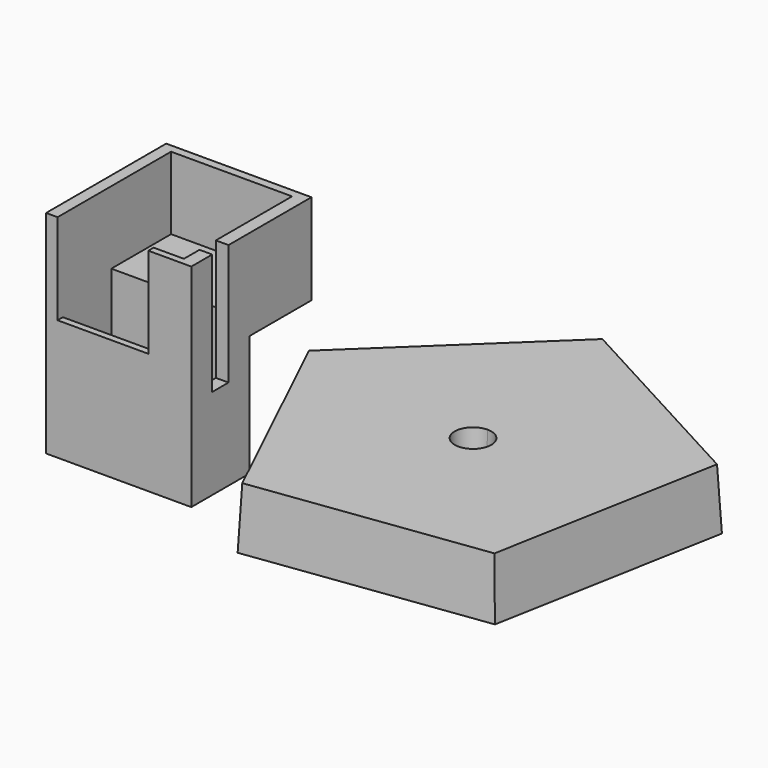
from build123d import *

# Parameters (mm, degrees)
F0_W     = 24
F0_H     = 12
F0_W_2   = 20
F0_H_2   = 10
F1_DEPTH = 15
F3_DEPTH = 5
F4_W     = 20
F4_H     = 0.9004633875
F5_DEPTH = 3
F6_DEPTH = 15
F8_DEPTH = 10
F8_TAPER = 3


with BuildPart() as f1:
    # F0 (on Top) → F1 (new body)
    with BuildSketch(Plane.XY):
        with Locations((-40.3433722556, -16.7747783065)):
            Rectangle(F0_W, F0_H)
        with Locations((-40.4425580055, -16.675241694)):
            Rectangle(F0_W_2, F0_H_2, mode=Mode.SUBTRACT)
    extrude(amount=F1_DEPTH)

    # F2 (on face) → F3 (join)
    with BuildSketch(Plane.XY.offset(15)):
        Polygon((-30.4425580055, -18.45254004), (-30.4425580055, -21.675241694), (-50.4425580055, -21.675241694), (-50.4425580055, -11.675241694), (-30.4425580055, -11.675241694), (-30.4425580055, -15.0842843577), (-28.3433722556, -15.0842843577), (-28.3433722556, -10.7747783065), (-52.3433722556, -10.7747783065), (-52.3433722556, -22.7747783065), (-28.3433722556, -22.7747783065), (-28.3433722556, -18.45254004), align=None)
    extrude(amount=F3_DEPTH)

    # F4 (on face) → F5 (join)
    with BuildSketch(Plane.XY.offset(20)):
        Polygon((-30.4425580055, 0.6715257093), (-50.4425580055, 0.6715257093), (-50.4425580055, -9.3284742907), (-50.4425580055, -10.7747783065), (-30.4425580055, -10.7747783065), (-30.4425580055, -9.3284742907), align=None)
        with Locations((-40.4425580055, -11.2250100002)):
            Rectangle(F4_W, F4_H)
        Polygon((-50.4425580055, -11.675241694), (-50.4425580055, -10.7747783065), (-52.3433722556, -10.7747783065), (-52.3433722556, -22.7747783065), (-50.4425580055, -22.7747783065), (-50.4425580055, -21.675241694), align=None)
        Polygon((-50.4425580055, -9.3284742907), (-50.4425580055, 0.6715257093), (-30.4425580055, 0.6715257093), (-30.4425580055, -9.3284742907), (-30.4425580055, -10.7747783065), (-28.3433722556, -10.7747783065), (-28.3433722556, 2.0432167221), (-52.3433722556, 2.0432167221), (-52.3433722556, -10.7747783065), (-50.4425580055, -10.7747783065), align=None)
        Polygon((-28.3433722556, -10.7747783065), (-30.4425580055, -10.7747783065), (-30.4425580055, -11.675241694), (-30.4425580055, -15.0842843577), (-28.3433722556, -15.0842843577), align=None)
    extrude(amount=F5_DEPTH)

    # F4 (on face) → F6 (join)
    with BuildSketch(Plane.XY.offset(20)):
        Polygon((-50.4425580055, -9.3284742907), (-50.4425580055, 0.6715257093), (-30.4425580055, 0.6715257093), (-30.4425580055, -9.3284742907), (-30.4425580055, -10.7747783065), (-30.4425580055, -11.675241694), (-30.4425580055, -15.0842843577), (-28.3433722556, -15.0842843577), (-28.3433722556, -10.7747783065), (-28.3433722556, 2.0432167221), (-52.3433722556, 2.0432167221), (-52.3433722556, -10.7747783065), (-52.3433722556, -22.7747783065), (-50.4425580055, -22.7747783065), (-50.4425580055, -21.675241694), (-50.4425580055, -11.675241694), (-50.4425580055, -10.7747783065), align=None)
        Polygon((-35.4425580055, -22.7747783065), (-28.3433722556, -22.7747783065), (-28.3433722556, -21.675241694), (-28.3433722556, -18.45254004), (-30.4425580055, -18.45254004), (-30.4425580055, -21.675241694), (-35.4425580055, -21.675241694), align=None)
    extrude(amount=F6_DEPTH)


with BuildPart() as f8:
    # F7 (on Top) → F8 (new body)
    with BuildSketch(Plane.XY):
        Polygon((-15.7026917916, -29.0010523291), (22.729241176, -23.8959653762), (29.7501353768, 14.2325335326), (-4.3426463432, 32.6921548454), (-32.434038418, 5.9723293273), align=None)
        with BuildLine():
            ThreePointArc((0, 2.5), (1.767766953, 1.767766953), (2.5, 0))
            ThreePointArc((2.5, 0), (1.767766953, -1.767766953), (0, -2.5))
            ThreePointArc((0, -2.5), (-2.5, 0), (0, 2.5))
        make_face(mode=Mode.SUBTRACT)
    extrude(amount=F8_DEPTH, taper=F8_TAPER)


solid = Compound([f1.part, f8.part])
